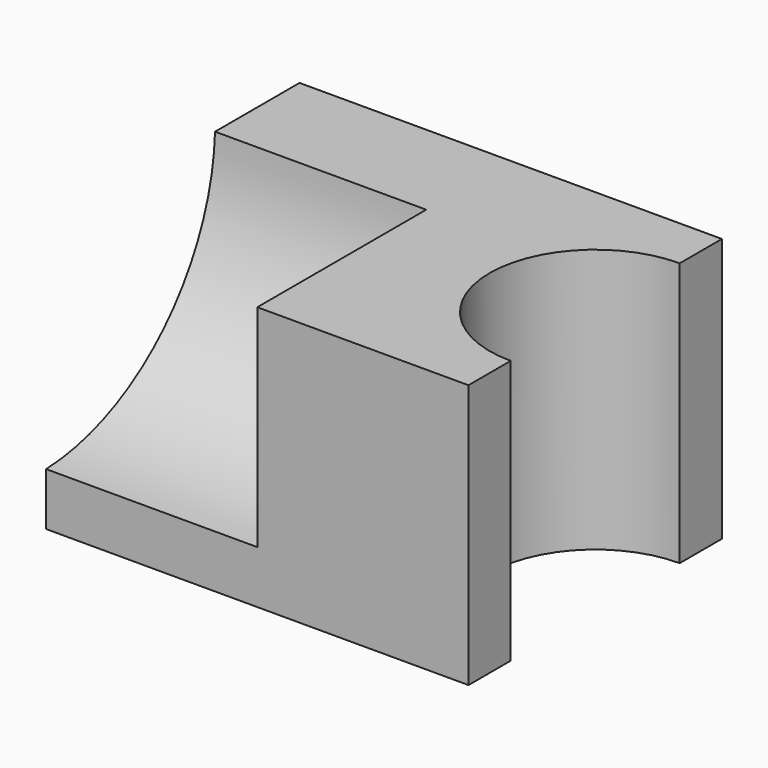
from build123d import *

# Parameters (mm, degrees)
F0_W     = 101.6
F0_H     = 63.5
F1_DEPTH = 76.2
F3_DEPTH = 63.5
F5_DEPTH = 50.8


with BuildPart() as f1:
    # F0 (on Front) → F1 (new body)
    with BuildSketch(Plane.XZ):
        with Locations((-1.3990358829, -7.4705901444)):
            Rectangle(F0_W, F0_H)
    extrude(amount=F1_DEPTH)

    # F2 (on face) → F3 (cut)
    with BuildSketch(Plane.XY.offset(24.2794098556)):
        with BuildLine():
            Line((49.4009641171, -63.5), (49.4009641171, -12.7))
            ThreePointArc((49.4009641171, -12.7), (24.0009641171, -38.1), (49.4009641171, -63.5))
        make_face()
    extrude(amount=-F3_DEPTH, mode=Mode.SUBTRACT)

    # F4 (on face) → F5 (cut)
    with BuildSketch(Plane(origin=(-52.1990358829, 0, 0), x_dir=(0, -1, 0), z_dir=(-1, 0, 0))):
        with BuildLine():
            Line((76.2, 24.2794098556), (25.4, 24.2794098556))
            ThreePointArc((25.4, 24.2794098556), (40.8007490362, -11.1198411082), (76.2, -26.5205901444))
            Line((76.2, -26.5205901444), (76.2, 24.2794098556))
        make_face()
    extrude(amount=-F5_DEPTH, mode=Mode.SUBTRACT)


solid = f1.part
